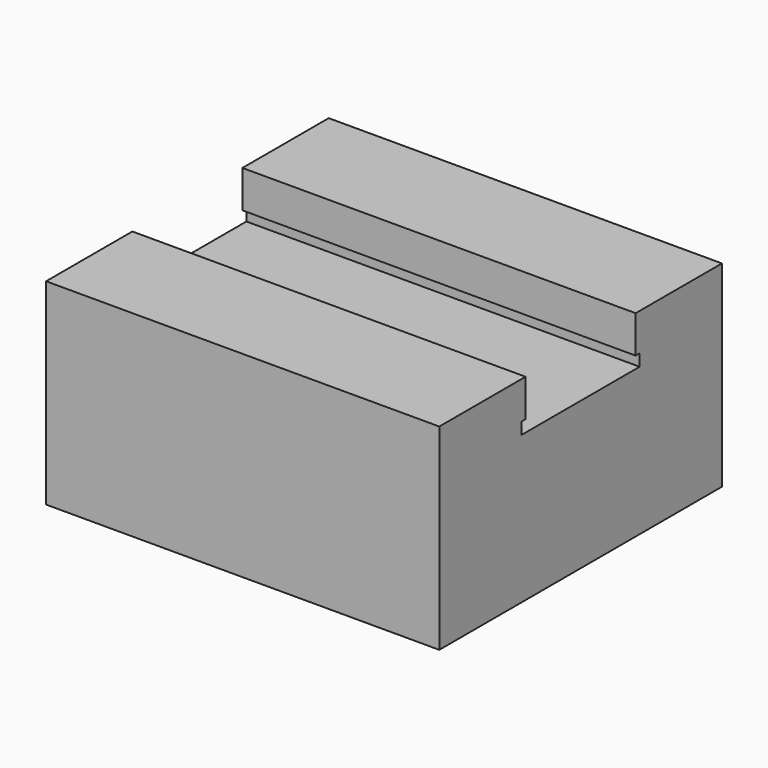
from build123d import *

# Parameters (mm, degrees)
F0_W      = 40
F0_H      = 35.9344822692
F1_DEPTH  = 20
F2_W      = 28
F2_H      = 14
F3_DEPTH  = 5
F4_W      = 14
F4_H      = 1.12
F5_DEPTH  = 3
F6_W      = 3
F6_H      = 1
F7_DEPTH  = 0.5
F8_W      = 12
F8_H      = 14
F9_DEPTH  = 2.5
F10_DEPTH = 25
F11_W     = 9.0484669507
F11_H     = 1.2658234112
F11_H_2   = 5.2294719476
F12_DEPTH = 2.5
F13_W     = 40
F13_H     = 1.2
F14_DEPTH = 0.5
F15_W     = 40
F15_H     = 1.2
F16_DEPTH = 0.5
F17_DEPTH = 2.5


with BuildPart() as f1:
    # F0 (on Top) → F1 (new body)
    with BuildSketch(Plane.XY):
        Rectangle(F0_W, F0_H)
    extrude(amount=F1_DEPTH)

    # F2 (on face) → F3 (cut)
    with BuildSketch(Plane.XY.offset(20)):
        with Locations((6, 0)):
            Rectangle(F2_W, F2_H)
    extrude(amount=-F3_DEPTH, mode=Mode.SUBTRACT)

    # F4 (on face) → F5 (cut)
    with BuildSketch(Plane.YZ.offset(-8)):
        with Locations((0, 15.56)):
            Rectangle(F4_W, F4_H)
    extrude(amount=-F5_DEPTH, mode=Mode.SUBTRACT)

    # F6 (on face) → F7 (cut)
    with BuildSketch(Plane(origin=(0, 0, 16.12), x_dir=(1, 0, 0), z_dir=(0, 0, -1))):
        with Locations((-9.5, -3.5)):
            Rectangle(F6_W, F6_H)
        with Locations((-9.5, -2.25)):
            Rectangle(F6_W, F6_H)
        with Locations((-9.5, -1)):
            Rectangle(F6_W, F6_H)
        with Locations((-9.5, 0.25)):
            Rectangle(F6_W, F6_H)
    extrude(amount=-F7_DEPTH, mode=Mode.SUBTRACT)

    # F8 (on face) → F9 (cut)
    with BuildSketch(Plane.XY.offset(20)):
        with Locations((-14, 0)):
            Rectangle(F8_W, F8_H)
    extrude(amount=-F9_DEPTH, mode=Mode.SUBTRACT)

    # F10 (cut): a face of the model
    f10_faces = [f1.faces().sort_by_distance(p)[0] for p in [
        (-11, 0.1838235294, 15.6516289593),
    ]]
    extrude(f10_faces, amount=-F10_DEPTH, mode=Mode.SUBTRACT)

    # F11 (on face) → F12 (cut, through all)
    with BuildSketch(Plane.XY.offset(17.5)):
        with Locations((-12.5242334753, 6.3670882944)):
            Rectangle(F11_W, F11_H)
        with Locations((-12.5242334753, -4.3852640262)):
            Rectangle(F11_W, F11_H_2)
    extrude(amount=-F12_DEPTH, mode=Mode.SUBTRACT)

    # F13 (on face) → F14 (cut)
    with BuildSketch(Plane(origin=(0, -7, 0), x_dir=(-1, 0, 0), z_dir=(0, 1, 0))):
        with Locations((0, 15.6)):
            Rectangle(F13_W, F13_H)
    extrude(amount=-F14_DEPTH, mode=Mode.SUBTRACT)

    # F15 (on face) → F16 (cut)
    with BuildSketch(Plane.XZ.offset(-7)):
        with Locations((0, 15.6)):
            Rectangle(F15_W, F15_H)
    extrude(amount=-F16_DEPTH, mode=Mode.SUBTRACT)

    # F17 (cut, through all): a face of the model
    f17_faces = [f1.faces().sort_by_distance(p)[0] for p in [
        (-14.7940711772, 1.2320876945, 17.5),
    ]]
    extrude(f17_faces, amount=-F17_DEPTH, mode=Mode.SUBTRACT)


solid = f1.part
